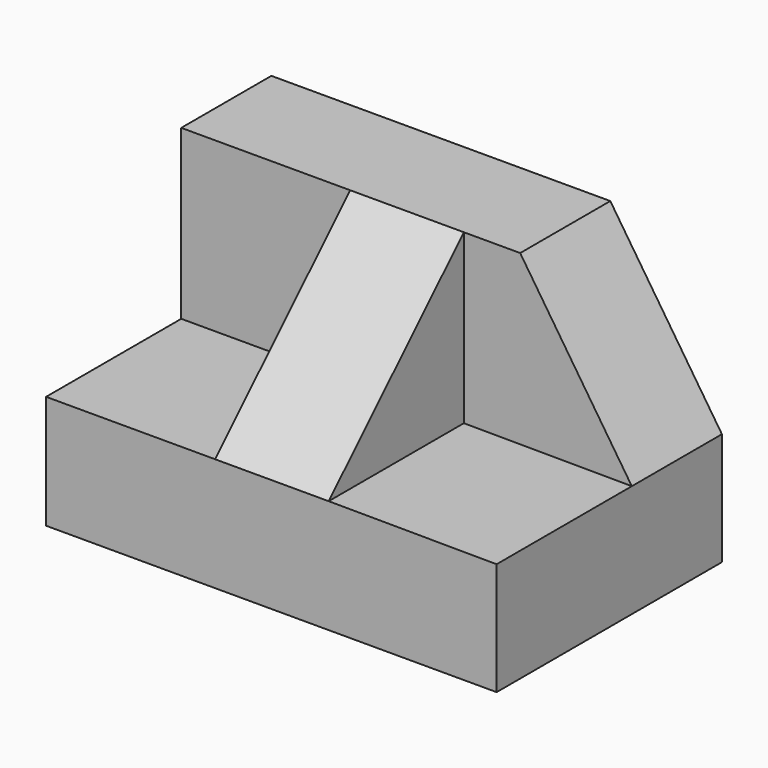
from build123d import *

# Parameters (mm, degrees)
F0_W      = 50.8
F0_H      = 31.75
F1_DEPTH  = 31.75
F3_DEPTH  = 31.75
F5_DEPTH  = 19.05
F6_W      = 19.05
F6_H      = 18.953177
F7_DEPTH  = 19.05
F9_DEPTH  = 12.7
F11_DEPTH = 25.4


with BuildPart() as f1:
    # F0 (on Front) → F1 (new body)
    with BuildSketch(Plane.XZ):
        with Locations((-12.814426, 3.078177)):
            Rectangle(F0_W, F0_H)
    extrude(amount=F1_DEPTH)

    # F2 (on face) → F3 (cut)
    with BuildSketch(Plane.XZ.offset(31.75)):
        Polygon((12.585574, -0.096823), (12.585574, 18.953177), (0, 18.953177), align=None)
    extrude(amount=-F3_DEPTH, mode=Mode.SUBTRACT)

    # F4 (on face) → F5 (cut)
    with BuildSketch(Plane.XZ.offset(31.75)):
        Polygon((-6.35, 0), (12.585574, -0.096823), (0, 18.953177), (-6.35, 18.953177), align=None)
    extrude(amount=-F5_DEPTH, mode=Mode.SUBTRACT)

    # F6 (on face) → F7 (cut)
    with BuildSketch(Plane.XZ.offset(31.75)):
        with Locations((-28.689426, 9.476589)):
            Rectangle(F6_W, F6_H)
    extrude(amount=-F7_DEPTH, mode=Mode.SUBTRACT)

    # F8 (on face) → F9 (cut)
    with BuildSketch(Plane.YZ.offset(-6.35)):
        Polygon((-31.75, 0), (-12.7, 18.953177), (-31.75, 18.953177), align=None)
    extrude(amount=-F9_DEPTH, mode=Mode.SUBTRACT)

    # F10 (on face) → F11 (cut)
    with BuildSketch(Plane(origin=(-19.164426, 0, 0), x_dir=(0, -1, 0), z_dir=(-1, 0, 0))):
        Polygon((31.75, 18.953177), (12.7, 18.953177), (31.75, 0), align=None)
    extrude(amount=-F11_DEPTH, mode=Mode.SUBTRACT)


solid = f1.part
